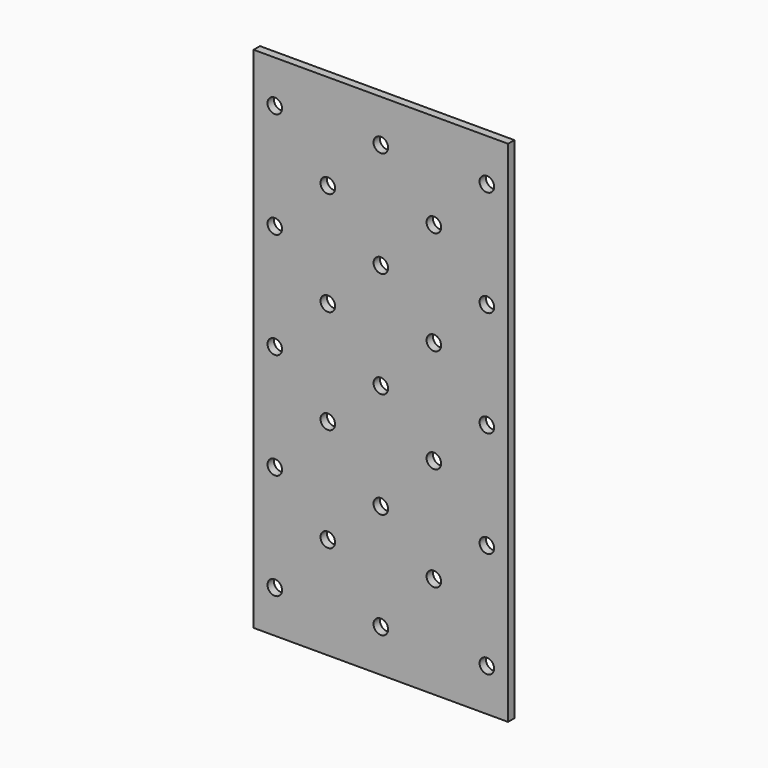
from build123d import *

# Parameters (mm, degrees)
F0_W     = 609.6
F0_H     = 1219.2
F1_DEPTH = 19.05
F2_R     = 17.4625
F3_DEPTH = 19.051


with BuildPart() as f1:
    # F0 (on Front) → F1 (new body)
    with BuildSketch(Plane.XZ):
        Rectangle(F0_W, F0_H)
    extrude(amount=F1_DEPTH)

    # F2 (on face) → F3 (cut, through all)
    with BuildSketch(Plane.XZ.offset(19.05)):
        with Locations((-254, 508)):
            Circle(F2_R)
        with Locations((-254, 254)):
            Circle(F2_R)
        with Locations((-254, 0)):
            Circle(F2_R)
        with Locations((-254, -254)):
            Circle(F2_R)
        with Locations((-254, -508)):
            Circle(F2_R)
        with Locations((0, 508)):
            Circle(F2_R)
        with Locations((0, 254)):
            Circle(F2_R)
        Circle(F2_R)
        with Locations((0, -254)):
            Circle(F2_R)
        with Locations((0, -508)):
            Circle(F2_R)
        with Locations((254, 508)):
            Circle(F2_R)
        with Locations((254, 254)):
            Circle(F2_R)
        with Locations((254, 0)):
            Circle(F2_R)
        with Locations((254, -254)):
            Circle(F2_R)
        with Locations((254, -508)):
            Circle(F2_R)
        with Locations((-127, 381)):
            Circle(F2_R)
        with Locations((-127, 132.08)):
            Circle(F2_R)
        with Locations((-127, -116.84)):
            Circle(F2_R)
        with Locations((-127, -365.76)):
            Circle(F2_R)
        with Locations((127, 381)):
            Circle(F2_R)
        with Locations((127, 132.08)):
            Circle(F2_R)
        with Locations((127, -116.84)):
            Circle(F2_R)
        with Locations((127, -365.76)):
            Circle(F2_R)
    extrude(amount=-F3_DEPTH, mode=Mode.SUBTRACT)


solid = f1.part
